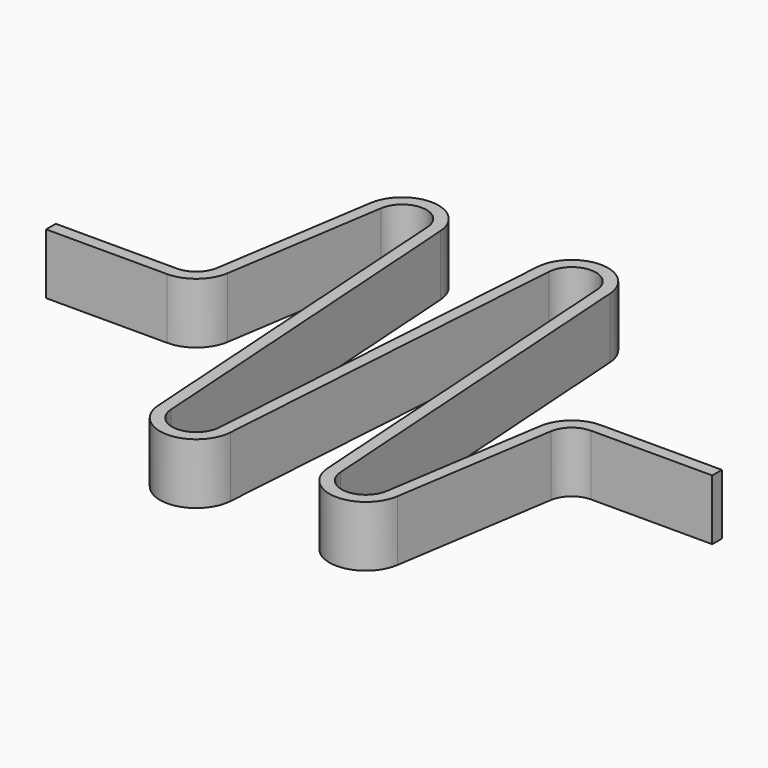
from build123d import *

# Parameters (mm, degrees)
SKETCH_W = 1
SKETCH_H = 5


with BuildPart() as part:
    # AdditivePipe: sweep along a path in Sketch001
    with BuildLine(Plane.XY) as additivepipe_path:
        Line((0, 0), (10, 0))
        ThreePointArc((10, 0), (11.62655, 0.60151), (12.470399, 2.116567))
        Line((12.470399, 2.116567), (14.529557, 15.383433))
        ThreePointArc((14.529557, 15.383433), (17.109663, 17.497593), (19.494501, 15.16539))
        Line((19.494501, 15.16539), (21.505454, -15.165388))
        ThreePointArc((21.505454, -15.165388), (23.999977, -17.5), (26.494501, -15.165389))
        Line((26.494501, -15.165389), (28.505454, 15.165389))
        ThreePointArc((28.505454, 15.165389), (30.999978, 17.5), (33.494501, 15.165388))
        Line((33.494501, 15.165388), (35.505455, -15.16539))
        ThreePointArc((35.505455, -15.16539), (37.890292, -17.497593), (40.470399, -15.383433))
        Line((40.470399, -15.383433), (42.529557, -2.116567))
        ThreePointArc((42.529557, -2.116567), (43.373406, -0.60151), (44.999956, 0))
        Line((44.999956, 0), (54.999956, 0))
    # Sketch → AdditivePipe (sweep)
    with BuildSketch(Plane.YZ):
        with Locations((0, 2.5)):
            Rectangle(SKETCH_W, SKETCH_H)
    sweep(path=additivepipe_path.line)


solid = part.part
